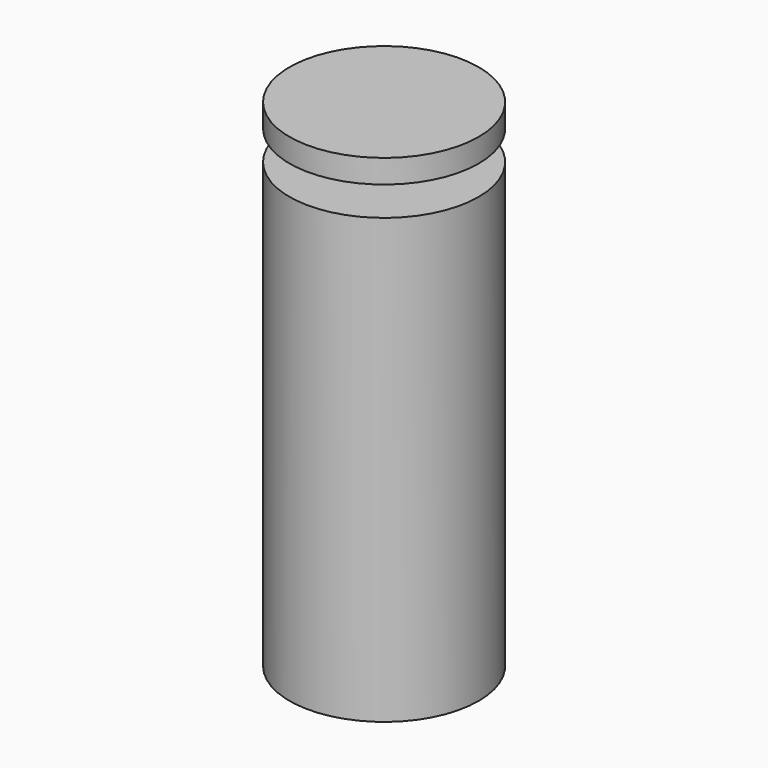
from build123d import *

# Parameters (mm, degrees)
F1_R     = 20.95
F2_DEPTH = 110
F7_R     = 22.5
F8_DEPTH = 6.5


with BuildPart() as f2:
    # F1 (on offset) → F2 (new body)
    with BuildSketch(Plane.XY.offset(-88.3)):
        Circle(F1_R)
    extrude(amount=F2_DEPTH)

    # F7 (on offset) → F8 (cut)
    with BuildSketch(Plane.XY.offset(10)):
        Circle(F7_R)
    extrude(amount=F8_DEPTH, mode=Mode.SUBTRACT)


solid = f2.part
